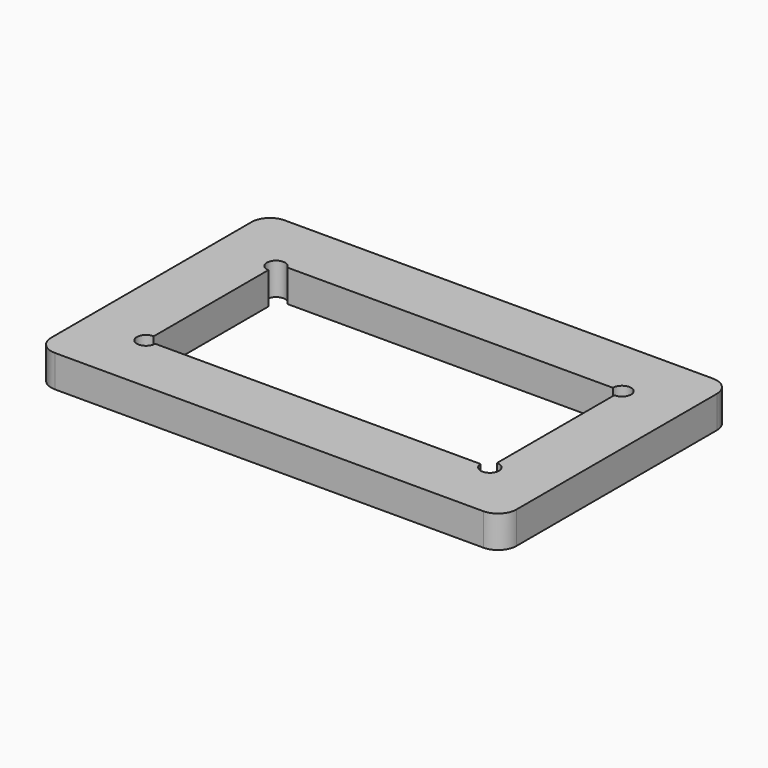
from build123d import *

# Parameters (mm, degrees)
SKETCH_W  = 50.7
SKETCH_H  = 31.3
PAD_DEPTH = 3.5
FILLET_R  = 2


with BuildPart() as part:
    # Sketch → Pad (new body)
    with BuildSketch(Plane.XY):
        Rectangle(SKETCH_W, SKETCH_H)
        with BuildLine():
            Line((-17.738958, 9), (17.738958, 9))
            ThreePointArc((18.7, 8.000759), (19.459707, 9.693196), (17.738958, 9))
            Line((18.7, 8.000759), (18.7, -8.000759))
            ThreePointArc((17.738958, -9), (19.459707, -9.693196), (18.7, -8.000759))
            Line((17.738958, -9), (-17.738958, -9))
            ThreePointArc((-18.7, -8.000759), (-19.459707, -9.693196), (-17.738958, -9))
            Line((-18.7, -8.000759), (-18.7, 7.61377))
            ThreePointArc((-17.738958, 9), (-19.482861, 9.182759), (-18.7, 7.61377))
        make_face(mode=Mode.SUBTRACT)
    extrude(amount=PAD_DEPTH)

    # Fillet
    fillet_edges = [part.edges().sort_by_distance(p)[0] for p in [
        (25.35, 15.65, 1.75),
        (25.35, -15.65, 1.75),
        (-25.35, -15.65, 1.75),
        (-25.35, 15.65, 1.75),
    ]]
    fillet(fillet_edges, radius=FILLET_R)


solid = part.part
